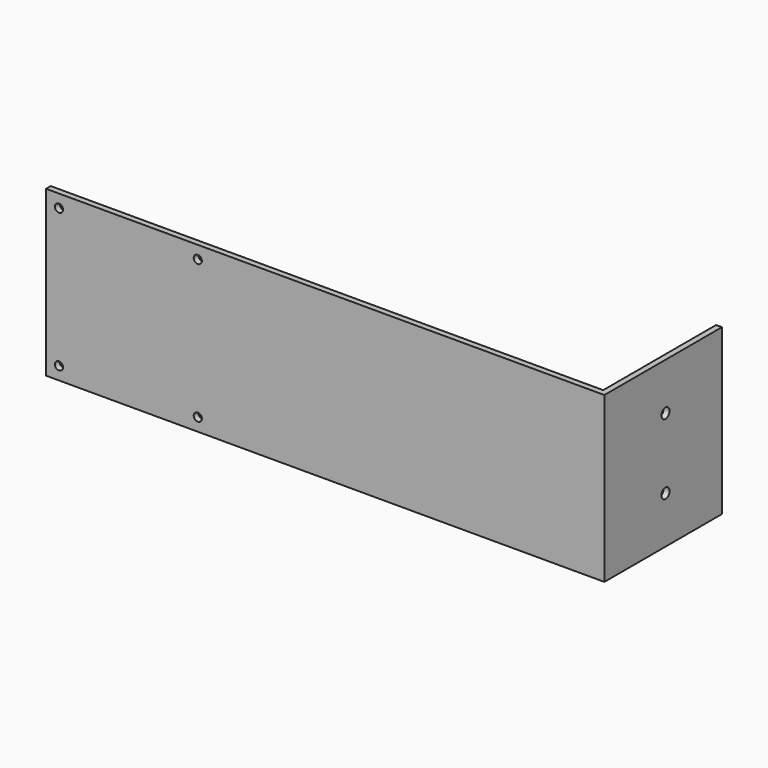
from build123d import *

# Parameters (mm, degrees)
F0_W     = 301.625
F0_H     = 88.9
F0_W_2   = 75.00112
F0_H_2   = 75.00112
F1_DEPTH = 3.175
F2_D     = 4.4
F3_W     = 3.175
F3_H     = 88.9
F4_DEPTH = 76.2
F6_D     = 5.5


with BuildPart() as f1:
    # F0 (on Front) → F1 (new body)
    with BuildSketch(Plane.XZ):
        Rectangle(F0_W, F0_H)
        with Locations((-106.35234, 0)):
            Rectangle(F0_W_2, F0_H_2, mode=Mode.SUBTRACT)
        with Locations((-106.35234, 0)):
            Rectangle(F0_W_2, F0_H_2)
    extrude(amount=F1_DEPTH)

    # F2 (through all)
    with Locations(Plane(origin=(0, 0, 0), x_dir=(1, 0, 0), z_dir=(0, 1, 0))):
        with Locations((-143.8529, -37.50056), (-68.85178, -37.50056), (-68.85178, 37.50056), (-143.8529, 37.50056)):
            Hole(F2_D / 2)

    # F3 (on face) → F4 (join)
    with BuildSketch(Plane.XZ):
        with Locations((149.225, 0)):
            Rectangle(F3_W, F3_H)
    extrude(amount=-F4_DEPTH)

    # F6 (through all)
    with Locations(Plane.YZ.offset(150.8125)):
        with Locations((38.1, 19.05), (38.1, -19.05)):
            Hole(F6_D / 2)


solid = f1.part
